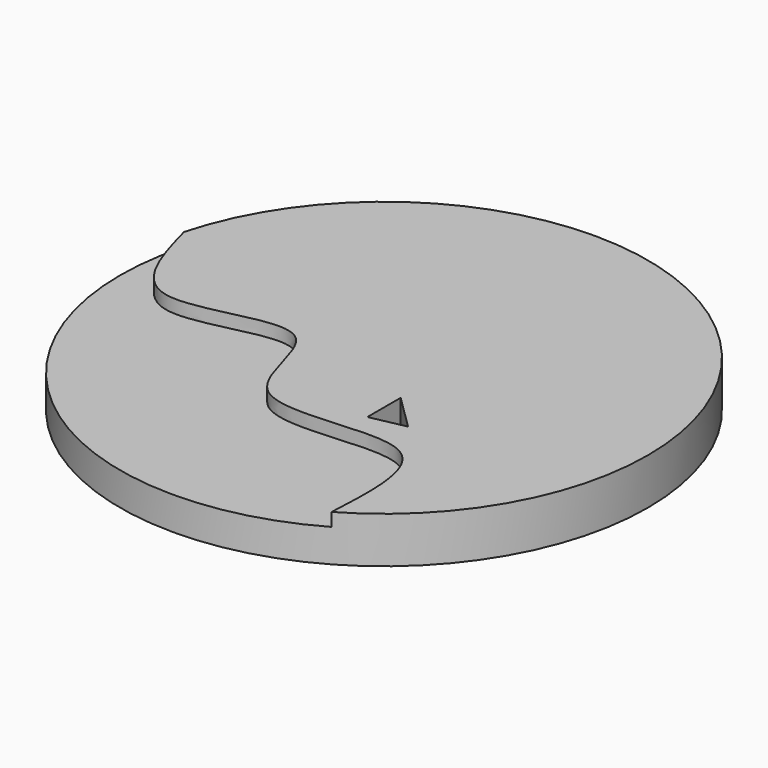
from build123d import *

# Parameters (mm, degrees)
F1_DEPTH = 6.35
F2_DEPTH = 8.89


with BuildPart() as f1:
    # F0 (on Top) → F1 (new body)
    with BuildSketch(Plane.XY):
        with BuildLine():
            add(Edge.make_bspline(
                [(-59.1533951919, 9.3162781055), (-56.9582000685, 1.1634198892), (-52.4335610784, -15.6345695622), (-19.814049562, 2.2108933645), (-22.6507053562, -32.1385169357), (16.6514009889, -18.1156160914), (15.6056892094, -38.3052125796), (15.1022408058, -47.9755726642)],
                knots=[0, 0, 0, 0, 0.1920667506, 0.3956983166, 0.5798128567, 0.7986560452, 1, 1, 1, 1], degree=3))
            ThreePointArc((-59.1533951919, 9.3162781055), (-41.1248412662, -44.084092838), (15.1022408058, -47.9755726642))
        make_face()
    extrude(amount=F1_DEPTH)

    # F0 (on Top) → F2 (join)
    with BuildSketch(Plane.XY):
        with BuildLine():
            ThreePointArc((15.1022408058, -47.9755726642), (33.8419468366, -29.366071593), (40.7070069965, -3.8638940145))
            ThreePointArc((40.7070069965, -3.8638940145), (-3.4457541471, 46.4993288329), (-59.1533951919, 9.3162781055))
            add(Edge.make_bspline(
                [(-59.1533951919, 9.3162781055), (-56.9582000685, 1.1634198892), (-52.4335610784, -15.6345695622), (-19.814049562, 2.2108933645), (-22.6507053562, -32.1385169357), (16.6514009889, -18.1156160914), (15.6056892094, -38.3052125796), (15.1022408058, -47.9755726642)],
                knots=[0, 0, 0, 0, 0.1920667506, 0.3956983166, 0.5798128567, 0.7986560452, 1, 1, 1, 1], degree=3))
        make_face()
        Polygon((0, -20.487647436), (0, -12.4726234147), (6.7203410137, -19.0996253454), align=None, mode=Mode.SUBTRACT)
    extrude(amount=F2_DEPTH)


solid = f1.part
